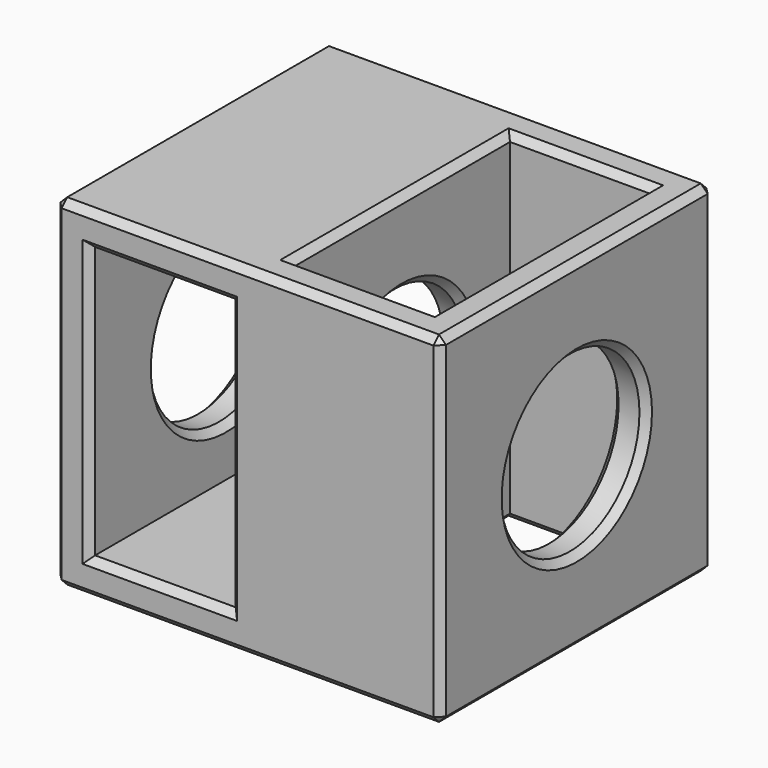
from build123d import *

# Parameters (mm, degrees)
SKETCH004_W          = 55.4
SKETCH004_H          = 49
PAD001_DEPTH         = 24.5
SKETCH005_W          = 20.2
SKETCH005_H          = 39
POCKET003_DEPTH      = 24.501
POCKET003_DEPTH_BACK = 24.501
SKETCH006_W          = 20.2
SKETCH006_H          = 39
POCKET004_DEPTH      = 24.501
POCKET004_DEPTH_BACK = 24.501
SKETCH007_R          = 12.5
POCKET005_DEPTH      = 27.701
POCKET005_DEPTH_BACK = 27.701
CHAMFER001_SIZE      = 1


with BuildPart() as part:
    # Sketch004 → Pad001 (new body, symmetric)
    with BuildSketch(Plane.XY):
        Rectangle(SKETCH004_W, SKETCH004_H)
    extrude(amount=PAD001_DEPTH, both=True)

    # Sketch005 → Pocket003 (cut, two sides)
    with BuildSketch(Plane.XY) as pocket003_sk:
        with Locations((12.6, 0)):
            Rectangle(SKETCH005_W, SKETCH005_H)
    extrude(amount=-POCKET003_DEPTH, mode=Mode.SUBTRACT)
    extrude(pocket003_sk.sketch, amount=POCKET003_DEPTH_BACK, mode=Mode.SUBTRACT)

    # Sketch006 → Pocket004 (cut, two sides)
    with BuildSketch(Plane.XZ) as pocket004_sk:
        with Locations((-12.6, 0)):
            Rectangle(SKETCH006_W, SKETCH006_H)
    extrude(amount=-POCKET004_DEPTH, mode=Mode.SUBTRACT)
    extrude(pocket004_sk.sketch, amount=POCKET004_DEPTH_BACK, mode=Mode.SUBTRACT)

    # Sketch007 → Pocket005 (cut, two sides)
    with BuildSketch(Plane.YZ) as pocket005_sk:
        Circle(SKETCH007_R)
    extrude(amount=-POCKET005_DEPTH, mode=Mode.SUBTRACT)
    extrude(pocket005_sk.sketch, amount=POCKET005_DEPTH_BACK, mode=Mode.SUBTRACT)

    # Chamfer001
    chamfer001_edges = [part.edges().sort_by_distance(p)[0] for p in [
        (-27.7, -24.5, 0),
        (0, -24.5, 24.5),
        (0, -24.5, -24.5),
        (27.7, -24.5, 0),
        (27.7, 0, 24.5),
        (-27.7, 0, 24.5),
        (0, 24.5, 24.5),
        (27.7, 24.5, 0),
        (27.7, 0, -24.5),
        (27.7, -12.5, 0),
        (22.7, -12.5, 0),
        (2.5, -12.5, 0),
        (2.5, 0, 24.5),
        (12.6, -19.5, 24.5),
        (22.7, 0, 24.5),
        (12.6, 19.5, 24.5),
        (-12.6, -24.5, 19.5),
        (-22.7, -24.5, 0),
        (-12.6, -24.5, -19.5),
        (-2.5, -24.5, 0),
        (-22.7, -12.5, 0),
        (-27.7, -12.5, 0),
        (-2.5, -12.5, 0),
        (0, 24.5, -24.5),
        (-27.7, 24.5, 0),
        (-22.7, 24.5, 0),
        (-2.5, 24.5, 0),
        (-12.6, 24.5, 19.5),
        (-12.6, 24.5, -19.5),
        (-27.7, 0, -24.5),
        (2.5, 0, -24.5),
        (12.6, -19.5, -24.5),
        (12.6, 19.5, -24.5),
        (22.7, 0, -24.5),
    ]]
    chamfer(chamfer001_edges, length=CHAMFER001_SIZE)


solid = part.part
